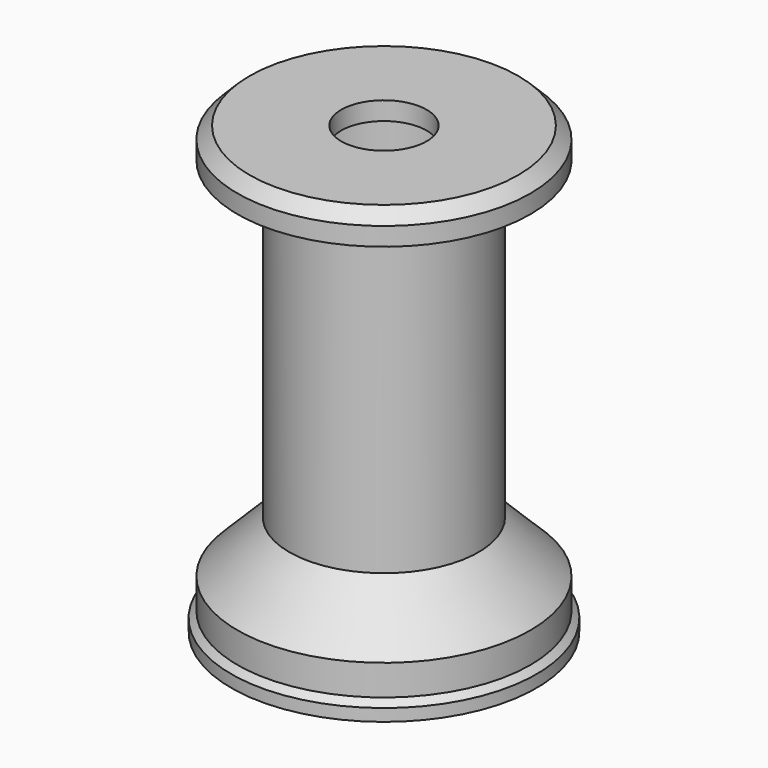
from build123d import *

# Parameters (mm, degrees)
CHAMFER_SIZE         = 3
CHAMFER001_SIZE      = 2
BODY_PLACEMENT_ANGLE = 180


with BuildPart() as part:
    # Sketch → Revolution (revolve)
    with BuildSketch(Plane.XZ):
        Polygon((24, 0), (7, 0), (7, 3), (12.5, 3), (12.5, 73), (25, 73), (25, 71), (24, 70), (24, 65), (15.5, 56.5), (15.5, 5), (24, 5), align=None)
    revolve(axis=Axis((0, 0, 0), (0, 0, 1)))

    # Chamfer
    chamfer_edges = [part.edges().sort_by_distance(p)[0] for p in [
        (-12.5, 0, 73),
    ]]
    chamfer(chamfer_edges, length=CHAMFER_SIZE)

    # Chamfer001
    chamfer001_edges = [part.edges().sort_by_distance(p)[0] for p in [
        (-24, 0, 0),
    ]]
    chamfer(chamfer001_edges, length=CHAMFER001_SIZE)


with BuildPart() as part_1:
    # Body placement: moved
    add(part.part.moved(Location((0, 0, -33))).rotate(Axis((0, 0, -33), (0, 1, 0)), BODY_PLACEMENT_ANGLE))


solid = part_1.part
